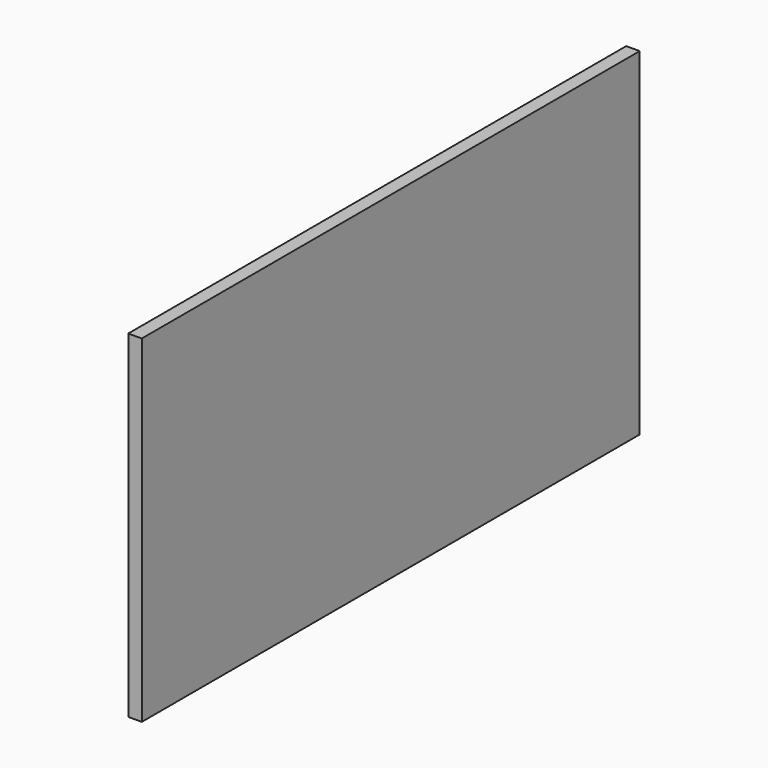
from build123d import *

# Parameters (mm, degrees)
PAD_DEPTH = 10


with BuildPart() as part:
    # Sketch → Pad (new body)
    with BuildSketch(Plane.YZ):
        Polygon((0, 0), (0, 250), (461, 250), (461, 0), (230.5, 0), align=None)
    extrude(amount=-PAD_DEPTH)


solid = part.part
